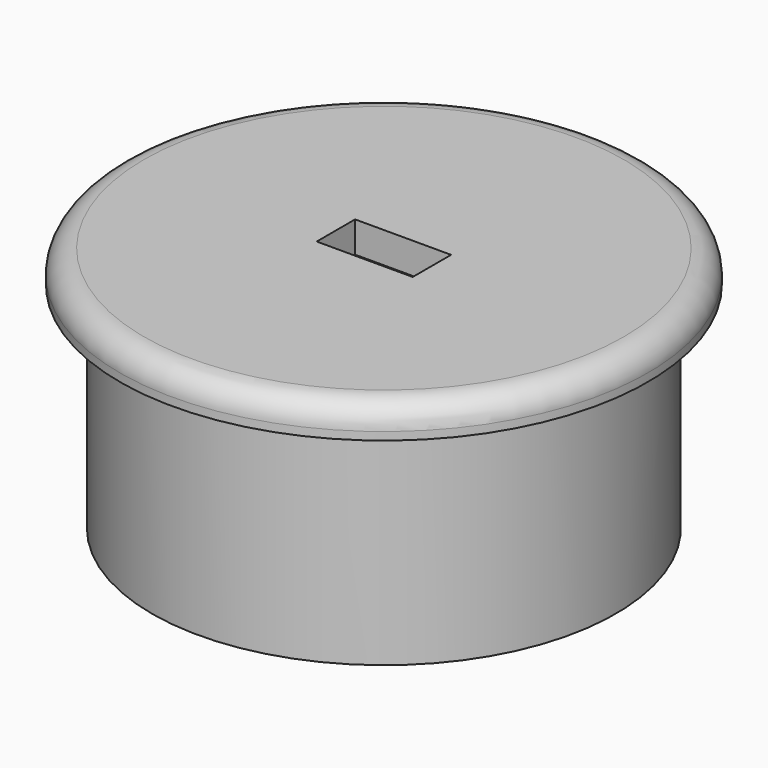
from build123d import *

# Parameters (mm, degrees)
F2_W     = 6
F2_H     = 3
F3_DEPTH = 25
F4_R     = 1.5


with BuildPart() as f1:
    # F0 (on Front) → F1 (revolve)
    with BuildSketch(Plane.XZ):
        Polygon((-16.5, 2), (-14.5, 2), (-14.5, -11.4), (-12.5, -11.4), (-12.5, 2.059244), (0, 2.059244), (0, 4), (-16.5, 4), align=None)
    revolve(axis=Axis((0, 0, -8.009328), (0, 0, -1)))

    # F2 (on face) → F3 (cut)
    with BuildSketch(Plane.XY.offset(4)):
        Rectangle(F2_W, F2_H)
    extrude(amount=-F3_DEPTH, mode=Mode.SUBTRACT)

    # F4
    f4_edges = [f1.edges().sort_by_distance(p)[0] for p in [
        (16.5, 0, 4),
    ]]
    fillet(f4_edges, radius=F4_R)


solid = f1.part
